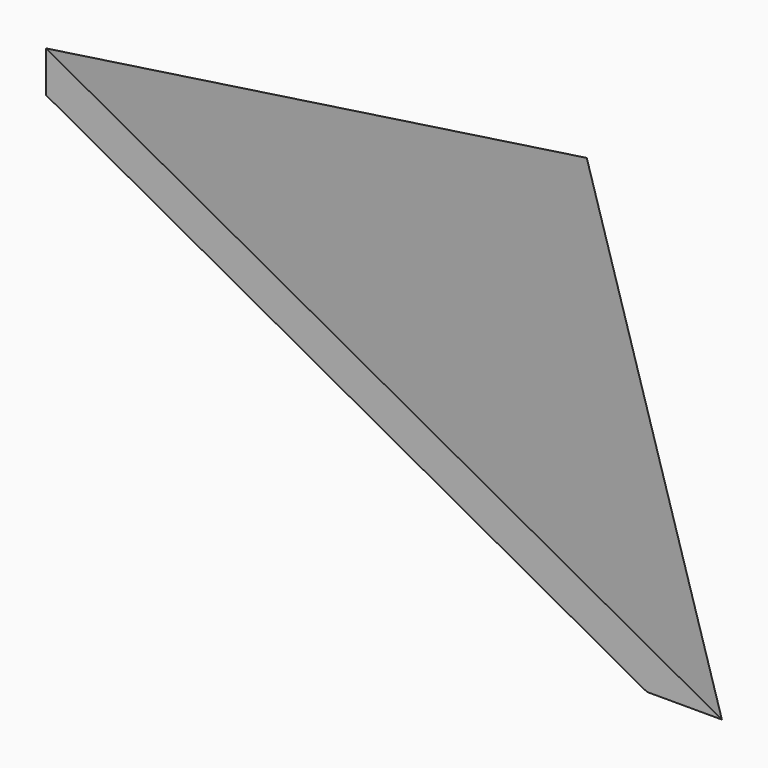
from build123d import *

# Parameters (mm, degrees)
F5_DEPTH      = 25
F7_DEPTH      = 343
F7_DEPTH_BACK = 50
F8_W          = 519.6738243103
F8_H          = 31.4134806395
F9_DEPTH      = 544


with BuildPart() as f5:
    # F4 (on 3pt) → F5 (new body)
    with BuildSketch(Plane(origin=(97.7491601024, 97.7491601024, 177.9939324181), x_dir=(0.9010441054, -0.2087794804, -0.3801718673), z_dir=(0.4337274722, 0.4337274722, 0.7897853884))):
        Polygon((-108.4843233732, 455.4515841965), (-108.4843233732, -137.3592433699), (468.1933296886, 0), align=None)
    extrude(amount=-F5_DEPTH)

    # F6 (on Top) → F7 (cut, two sides)
    with BuildSketch(Plane.XY) as f7_sk:
        Polygon((0, 577.9420137405), (-45, 577.9420137405), (-45, -45), (592.9301977158, -45), (592.9301977158, 0), (0, 0), align=None)
    extrude(amount=F7_DEPTH, mode=Mode.SUBTRACT)
    extrude(f7_sk.sketch, amount=-F7_DEPTH_BACK, mode=Mode.SUBTRACT)

    # F8 (on Front) → F9 (cut)
    with BuildSketch(Plane.XZ):
        with Locations((259.8369121552, -15.7067403197)):
            Rectangle(F8_W, F8_H)
    extrude(amount=-F9_DEPTH, mode=Mode.SUBTRACT)


solid = f5.part
